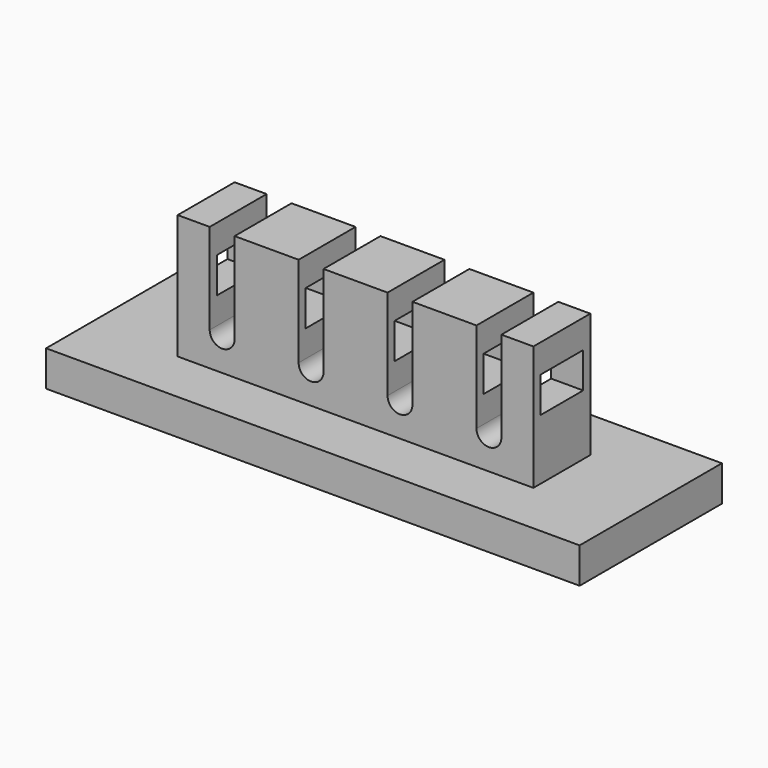
from build123d import *

# Parameters (mm, degrees)
F0_W     = 150
F0_H     = 50
F1_DEPTH = 10
F2_W     = 100
F2_H     = 20
F3_DEPTH = 35
F5_DEPTH = 35.001
F6_W     = 15
F6_H     = 10
F7_DEPTH = 125.001


with BuildPart() as f1:
    # F0 (on Top) → F1 (new body)
    with BuildSketch(Plane.XY):
        with Locations((75, 25)):
            Rectangle(F0_W, F0_H)
    extrude(amount=F1_DEPTH)

    # F2 (on face) → F3 (join)
    with BuildSketch(Plane.XY.offset(10)):
        with Locations((75, 25)):
            Rectangle(F2_W, F2_H)
    extrude(amount=F3_DEPTH)

    # F4 (on face) → F5 (cut, through all)
    with BuildSketch(Plane.XZ.offset(-15)):
        with BuildLine():
            Line((41, 45), (34, 45))
            Line((34, 45), (34, 19.5))
            ThreePointArc((34, 19.5), (37.5, 16), (41, 19.5))
            Line((41, 19.5), (41, 45))
        make_face()
        with BuildLine():
            Line((116, 19.5), (116, 45))
            Line((116, 45), (109, 45))
            Line((109, 45), (109, 19.5))
            ThreePointArc((109, 19.5), (112.5, 16), (116, 19.5))
        make_face()
        with BuildLine():
            Line((66, 45), (59, 45))
            Line((59, 45), (59, 19.5))
            ThreePointArc((59, 19.5), (62.5, 16), (66, 19.5))
            Line((66, 19.5), (66, 45))
        make_face()
        with BuildLine():
            ThreePointArc((84, 19.5), (87.5, 16), (91, 19.5))
            Line((91, 19.5), (91, 45))
            Line((91, 45), (84, 45))
            Line((84, 45), (84, 19.5))
        make_face()
    extrude(amount=-F5_DEPTH, mode=Mode.SUBTRACT)

    # F6 (on face) → F7 (cut, through all)
    with BuildSketch(Plane.YZ.offset(125)):
        with Locations((25, 32)):
            Rectangle(F6_W, F6_H)
    extrude(amount=-F7_DEPTH, mode=Mode.SUBTRACT)


solid = f1.part
